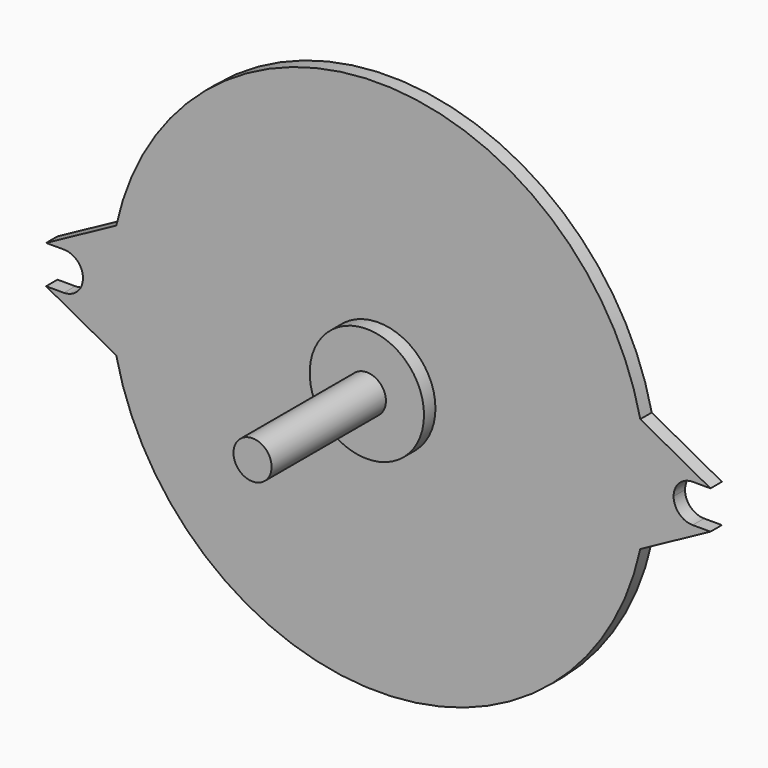
from build123d import *

# Parameters (mm, degrees)
F1_R     = 6
F2_DEPTH = 1.5
F3_R     = 2
F4_DEPTH = 15
F5_DEPTH = 1.5


with BuildPart() as f2:
    # F1 (on face) → F2 (new body)
    with BuildSketch(Plane.XZ):
        Circle(F1_R)
    extrude(amount=F2_DEPTH)

    # F3 (on face) → F4 (join)
    with BuildSketch(Plane.XZ.offset(1.5)):
        Circle(F3_R)
    extrude(amount=F4_DEPTH)

    # F0 (on Front) → F5 (join)
    with BuildSketch(Plane.XZ):
        with BuildLine():
            Line((0, 0), (28.15, 0))
            ThreePointArc((28.15, 0), (27.987817, 3.017384), (27.503136, 6))
            ThreePointArc((27.503136, 6), (0, 28.15), (-27.503136, 6))
            ThreePointArc((-27.503136, 6), (-27.987817, 3.017384), (-28.15, 0))
            Line((-28.15, 0), (0, 0))
        make_face()
        with BuildLine():
            Line((31, 0), (28.15, 0))
            ThreePointArc((28.15, 0), (27.987817, -3.017384), (27.503136, -6))
            Line((27.503136, -6), (34.871192, -2))
            Line((34.871192, -2), (33, -2))
            ThreePointArc((33, -2), (31.585786, -1.414214), (31, 0))
        make_face()
        with BuildLine():
            ThreePointArc((27.503136, -6), (27.987817, -3.017384), (28.15, 0))
            Line((28.15, 0), (0, 0))
            Line((0, 0), (-28.15, 0))
            ThreePointArc((-28.15, 0), (-27.987817, -3.017384), (-27.503136, -6))
            ThreePointArc((-27.503136, -6), (0, -28.15), (27.503136, -6))
        make_face()
        with BuildLine():
            ThreePointArc((27.503136, 6), (27.987817, 3.017384), (28.15, 0))
            Line((28.15, 0), (31, 0))
            ThreePointArc((31, 0), (31.585786, 1.414214), (33, 2))
            Line((33, 2), (34.871192, 2))
            Line((34.871192, 2), (27.503136, 6))
        make_face()
        with BuildLine():
            ThreePointArc((-28.15, 0), (-27.987817, 3.017384), (-27.503136, 6))
            Line((-27.503136, 6), (-34.871192, 2))
            Line((-34.871192, 2), (-33, 2))
            ThreePointArc((-33, 2), (-31.585786, 1.414214), (-31, 0))
            Line((-31, 0), (-28.15, 0))
        make_face()
        with BuildLine():
            Line((-34.871192, -2), (-27.503136, -6))
            ThreePointArc((-27.503136, -6), (-27.987817, -3.017384), (-28.15, 0))
            Line((-28.15, 0), (-31, 0))
            ThreePointArc((-31, 0), (-31.585786, -1.414214), (-33, -2))
            Line((-33, -2), (-34.871192, -2))
        make_face()
    extrude(amount=-F5_DEPTH)


solid = f2.part
